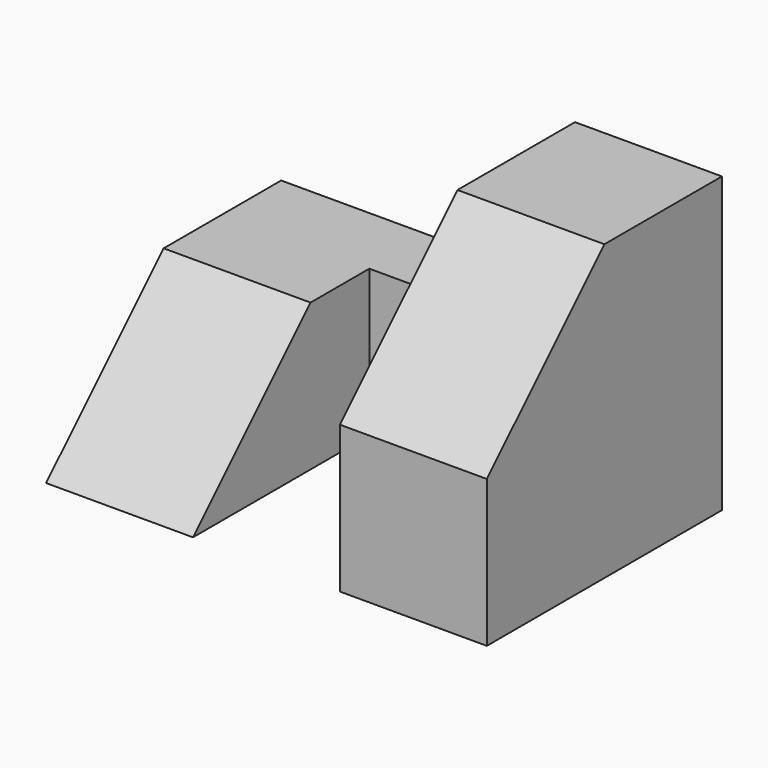
from build123d import *

# Parameters (mm, degrees)
F1_DEPTH = 12.7
F2_W     = 6.35
F2_H     = 12.7
F3_DEPTH = 12.7
F4_W     = 12.7
F4_H     = 25.4
F5_DEPTH = 12.7
F7_DEPTH = 12.7


with BuildPart() as f1:
    # F0 (on Right) → F1 (new body)
    with BuildSketch(Plane.YZ):
        Polygon((0, 12.7), (0, 0), (25.4, 0), (25.4, 25.4), (12.7, 25.4), align=None)
        Polygon((0, 12.7), (0, 0), (25.4, 0), (25.4, 25.4), (12.7, 25.4), align=None)
    extrude(amount=F1_DEPTH)

    # F2 (on face) → F3 (join)
    with BuildSketch(Plane(origin=(0, 0, 0), x_dir=(0, -1, 0), z_dir=(-1, 0, 0))):
        with Locations((-22.225, 6.35)):
            Rectangle(F2_W, F2_H)
    extrude(amount=F3_DEPTH)

    # F4 (on Top) → F5 (join)
    with BuildSketch(Plane.XY):
        with Locations((-19.05, 12.7)):
            Rectangle(F4_W, F4_H)
    extrude(amount=F5_DEPTH)

    # F6 (on face) → F7 (cut, through all)
    with BuildSketch(Plane(origin=(-25.4, 0, 0), x_dir=(0, -1, 0), z_dir=(-1, 0, 0))):
        Polygon((0, 12.7), (-12.7, 12.7), (0, 0), align=None)
    extrude(amount=-F7_DEPTH, mode=Mode.SUBTRACT)


solid = f1.part
